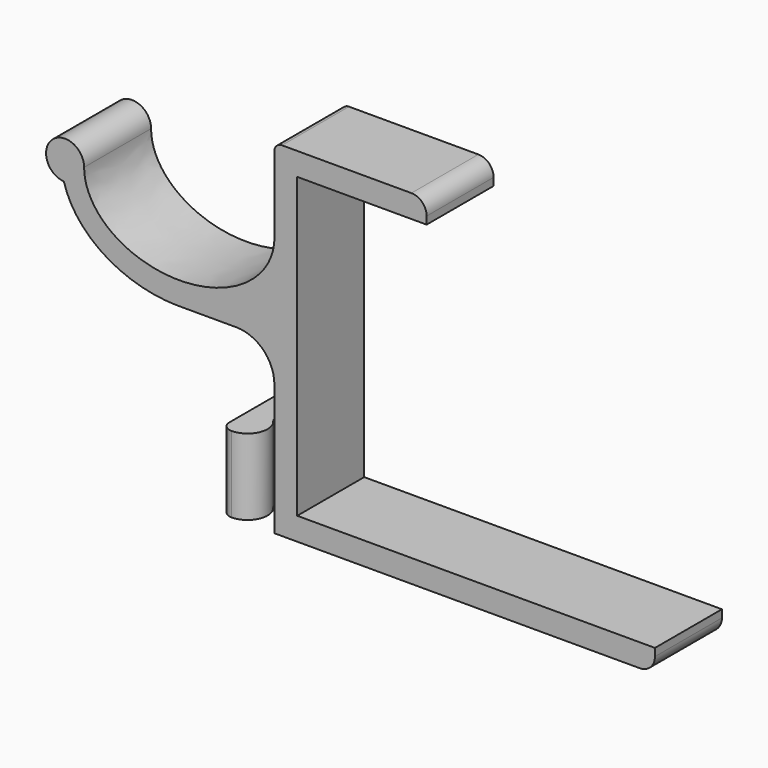
from build123d import *

# Parameters (mm, degrees)
F1_DEPTH = 11
F3_DEPTH = 10


with BuildPart() as f1:
    # F0 (on Front) → F1 (new body)
    with BuildSketch(Plane.XZ):
        with BuildLine():
            Line((47, 0), (0, 0))
            Line((0, 0), (0, 39.2))
            Line((0, 39.2), (17, 39.2))
            Line((17, 39.2), (17, 40.2))
            ThreePointArc((17, 40.2), (16.4142135624, 41.6142135624), (15, 42.2))
            Line((15, 42.2), (-2, 42.2))
            ThreePointArc((-2, 42.2), (-2.7071067812, 41.9071067812), (-3, 41.2))
            Line((-3, 41.2), (-3, 31.2))
            add(Edge.make_bspline(
                [(-28, 31.2), (-28, 22.2), (-15.5, 22.2), (-3, 22.2), (-3, 31.2)],
                knots=[3.1415926536, 3.1415926536, 3.1415926536, 4.7123889804, 4.7123889804, 6.2831853072, 6.2831853072, 6.2831853072], degree=2, weights=[1, 0.7071067812, 1, 0.7071067812, 1]))
            ThreePointArc((-28, 31.2), (-32.209777285, 33.0239138235), (-30.6613293085, 28.7052108598))
            add(Edge.make_bspline(
                [(-30.6613293085, 28.7052108598), (-28.0518177562, 19.2), (-15.5, 19.2)],
                knots=[3.3510192867, 3.3510192867, 3.3510192867, 4.7123889804, 4.7123889804, 4.7123889804], degree=2, weights=[1, 0.7771419095, 1]))
            Line((-15.5, 19.2), (-8, 19.2))
            ThreePointArc((-8, 19.2), (-4.4644660941, 17.7355339059), (-3, 14.2))
            Line((-3, 14.2), (-3, -2))
            ThreePointArc((-3, -2), (-2.7071067812, -2.7071067812), (-2, -3))
            Line((-2, -3), (45, -3))
            ThreePointArc((45, -3), (46.4142135624, -2.4142135624), (47, -1))
            Line((47, -1), (47, 0))
        make_face()
    extrude(amount=F1_DEPTH)

    # F2 (on face) → F3 (join)
    with BuildSketch(Plane(origin=(0, 0, -3), x_dir=(1, 0, 0), z_dir=(0, 0, -1))):
        with BuildLine():
            ThreePointArc((-3, 5.5), (-5.6574526292, 3.6111495453), (-6.5677560403, 6.7418296977))
            ThreePointArc((-6.5677560403, 6.7418296977), (-6.2620341698, 9.5166941269), (-8.6270166538, 11))
            ThreePointArc((-8.6270166538, 11), (-9.5978624884, 10.5978624884), (-10, 9.6270166538))
            Line((-10, 9.6270166538), (-10, 0))
            Line((-10, 0), (-2, 0))
            Line((-2, 0), (-2, 11))
            Line((-2, 11), (-3, 11))
            Line((-3, 11), (-3, 5.5))
        make_face()
    extrude(amount=-F3_DEPTH)


solid = f1.part
